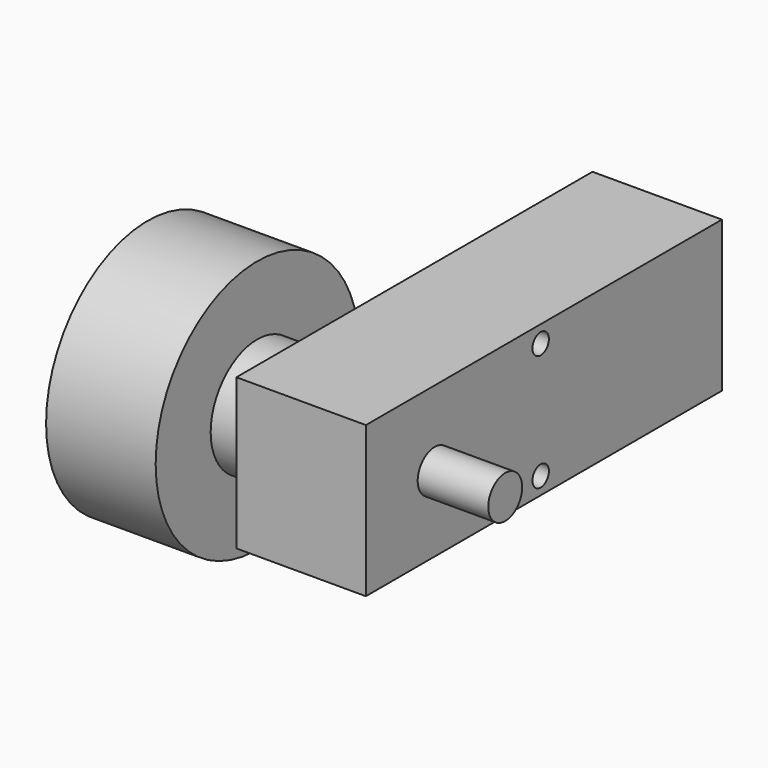
from build123d import *

# Parameters (mm, degrees)
F0_W     = 18.9000009559
F0_H     = 64.9800021201
F1_DEPTH = 22
F2_R     = 8.5
F3_DEPTH = 7
F4_R     = 18.539660173
F4_R_2   = 8.5
F5_DEPTH = 16
F6_R     = 3.0942257766
F7_DEPTH = 36.2
F9_D     = 3


with BuildPart() as f1:
    # F0 (on Top) → F1 (new body)
    with BuildSketch(Plane.XY):
        with Locations((-2.5199998636, 9.6300011501)):
            Rectangle(F0_W, F0_H)
    extrude(amount=F1_DEPTH)

    # F2 (on face) → F3 (join)
    with BuildSketch(Plane(origin=(-11.9700003415, 0, 0), x_dir=(0, -1, 0), z_dir=(-1, 0, 0))):
        with Locations((10.3100002706, 11)):
            Circle(F2_R)
    extrude(amount=F3_DEPTH)

    # F6 (on face) → F7 (join)
    with BuildSketch(Plane.YZ.offset(-18.9700003415)):
        with Locations((-10.3100002706, 11)):
            Circle(F6_R)
    extrude(amount=F7_DEPTH)

    # F9 (through all)
    with Locations(Plane.YZ.offset(6.9300006144)):
        with Locations((9.04000009, 2.5), (9.04000009, 19.5)):
            Hole(F9_D / 2)


with BuildPart() as f5:
    # F4 (on face) → F5 (new body)
    with BuildSketch(Plane(origin=(-18.9700003415, 0, 0), x_dir=(0, -1, 0), z_dir=(-1, 0, 0))):
        with Locations((10.3100002706, 11)):
            Circle(F4_R)
        with Locations((10.3100002706, 11)):
            Circle(F4_R_2, mode=Mode.SUBTRACT)
    extrude(amount=F5_DEPTH)


solid = Compound([f1.part, f5.part])
